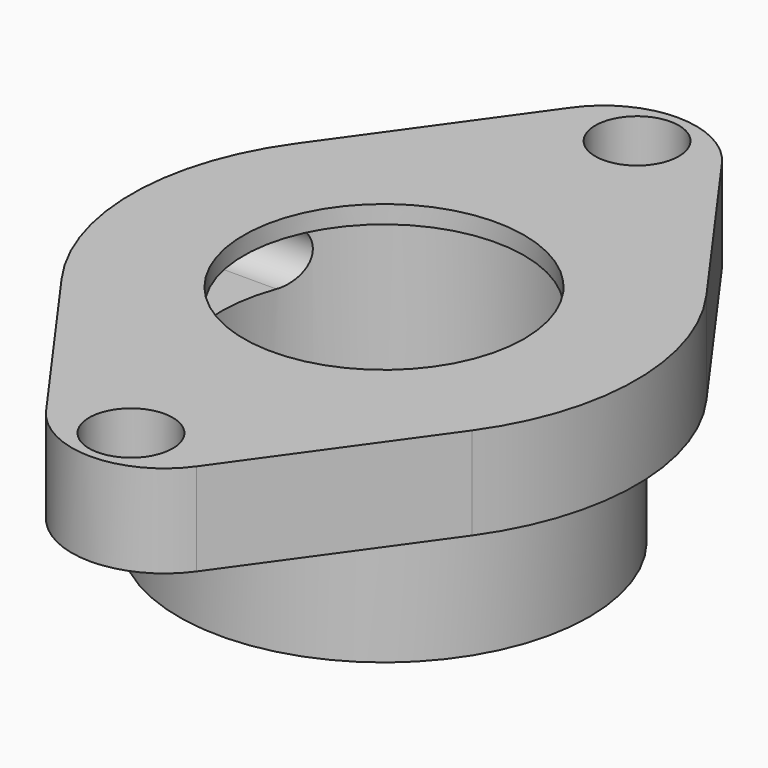
from build123d import *

# Parameters (mm, degrees)
F0_R     = 34.925
F0_R_2   = 23.876
F1_DEPTH = 38.1
F3_START = -3.048
F2_R     = 27.7664452923
F2_R_2   = 23.876
F3_DEPTH = 32.004
F0_R_3   = 7.112
F4_DEPTH = 15.748
F7_DEPTH = 28.1068998349


with BuildPart() as f1:
    # F0 (on Top) → F1 (new body)
    with BuildSketch(Plane.XY):
        Circle(F0_R)
        Circle(F0_R_2, mode=Mode.SUBTRACT)
    extrude(amount=-F1_DEPTH)

    # F2 (on face) → F3 (cut)
    with BuildSketch(Plane.XY.offset(F3_START)):
        Circle(F2_R)
        Circle(F2_R_2, mode=Mode.SUBTRACT)
    extrude(amount=-F3_DEPTH, mode=Mode.SUBTRACT)

    # F0 (on Top) → F4 (join)
    with BuildSketch(Plane.XY):
        with BuildLine():
            ThreePointArc((12.8114840486, 55.8938043478), (0, 62.484), (-12.8114840486, 55.8938043478))
            Line((-12.8114840486, 55.8938043478), (-34.9216258743, 24.9624021739))
            ThreePointArc((-34.9216258743, 24.9624021739), (-42.926, 0), (-34.9216258743, -24.9624021739))
            Line((-34.9216258743, -24.9624021739), (-12.8114840486, -55.8938043478))
            ThreePointArc((-12.8114840486, -55.8938043478), (0, -62.484), (12.8114840486, -55.8938043478))
            Line((12.8114840486, -55.8938043478), (34.9216258743, -24.9624021739))
            ThreePointArc((34.9216258743, -24.9624021739), (42.926, 0), (34.9216258743, 24.9624021739))
            Line((34.9216258743, 24.9624021739), (12.8114840486, 55.8938043478))
        make_face()
        with Locations((0, -53.848)):
            Circle(F0_R_3, mode=Mode.SUBTRACT)
        Circle(F0_R, mode=Mode.SUBTRACT)
        with Locations((0, 53.848)):
            Circle(F0_R_3, mode=Mode.SUBTRACT)
    extrude(amount=-F4_DEPTH)

    # F6 (on offset) → F7 (cut, up to face)
    with BuildSketch(Plane.YZ.offset(-50.8)):
        with BuildLine():
            Line((9.652, -3.048), (-9.652, -3.048))
            ThreePointArc((-9.652, -3.048), (-14.478, -7.874), (-9.652, -12.7))
            Line((-9.652, -12.7), (9.652, -12.7))
            ThreePointArc((9.652, -12.7), (14.478, -7.874), (9.652, -3.048))
        make_face()
    extrude(amount=F7_DEPTH, mode=Mode.SUBTRACT)


solid = f1.part
